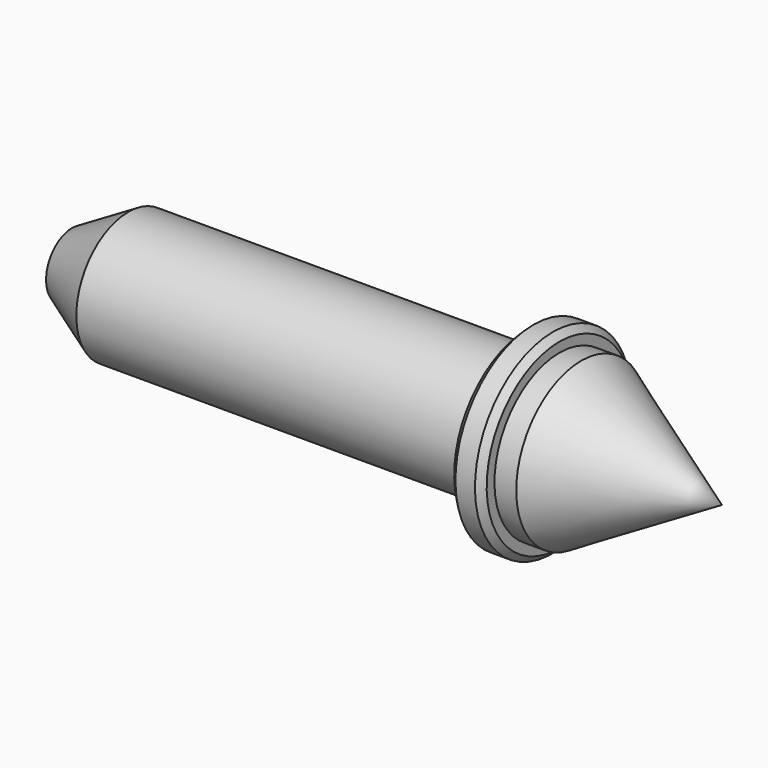
from build123d import *

# Parameters (mm, degrees)
F2_SIZE = 1


with BuildPart() as f1:
    # F0 (on Front) → F1 (revolve)
    with BuildSketch(Plane.XZ):
        Polygon((37.375841, 10), (28.715587, 5), (28.715587, 0), (128.715587, 0), (107.064952, 12.5), (103.715587, 12.5), (103.715587, 15), (98.715587, 15), (98.715587, 10), align=None)
    revolve(axis=Axis((78.715587, 0, 0), (1, 0, 0)))

    # F2
    f2_edges = [f1.edges().sort_by_distance(p)[0] for p in [
        (103.715587, 0, -15),
        (98.715587, 0, -15),
    ]]
    chamfer(f2_edges, length=F2_SIZE)


solid = f1.part
